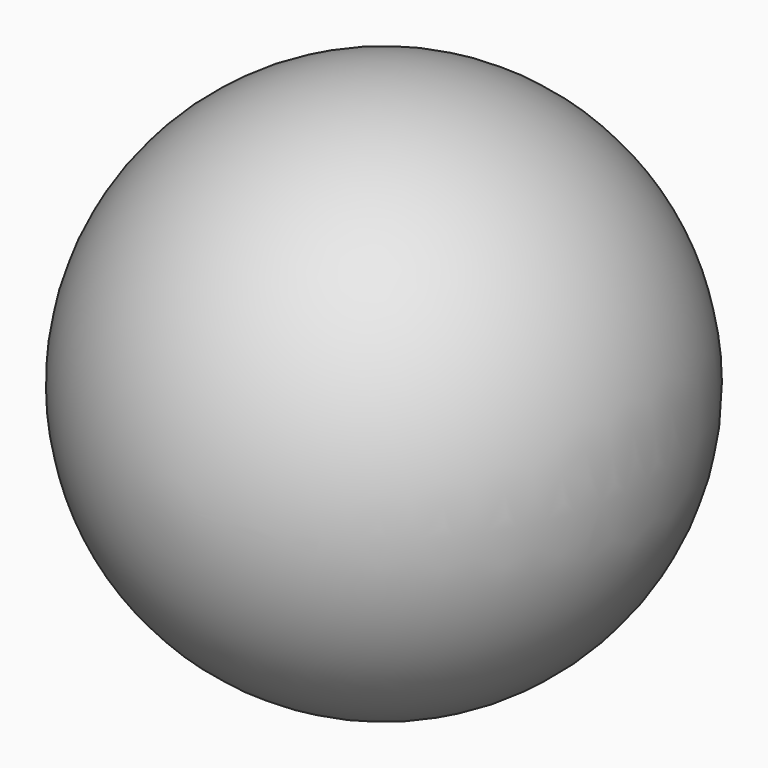
from build123d import *


with BuildPart() as f1:
    # F0 (on Top) → F1 (revolve)
    with BuildSketch(Plane.XY):
        with BuildLine():
            ThreePointArc((45, 0), (31.8198051534, 31.8198051534), (0, 45))
            Line((0, 45), (0, -45))
            ThreePointArc((0, -45), (31.8198051534, -31.8198051534), (45, 0))
        make_face()
    revolve(axis=Axis((0, 0, 0), (0, -1, 0)))


solid = f1.part
